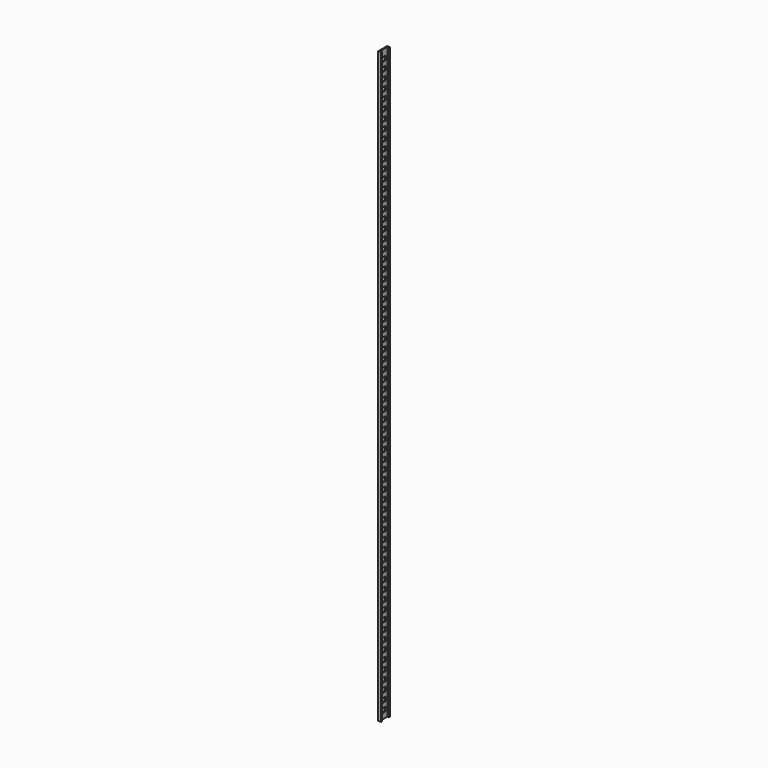
from build123d import *

# Parameters (mm, degrees)
F0_W     = 20
F0_H     = 1070
F0_W_2   = 8
F0_H_2   = 8
F1_DEPTH = 2
F2_W     = 2
F2_H     = 1070
F3_DEPTH = 3


with BuildPart() as f1:
    # F0 (on Right) → F1 (new body)
    with BuildSketch(Plane.YZ):
        with Locations((0, 535)):
            Rectangle(F0_W, F0_H)
        with Locations((0, 14)):
            Rectangle(F0_W_2, F0_H_2, mode=Mode.SUBTRACT)
        with Locations((0, 30)):
            Rectangle(F0_W_2, F0_H_2, mode=Mode.SUBTRACT)
        with Locations((0, 46)):
            Rectangle(F0_W_2, F0_H_2, mode=Mode.SUBTRACT)
        with Locations((0, 62)):
            Rectangle(F0_W_2, F0_H_2, mode=Mode.SUBTRACT)
        with Locations((0, 78)):
            Rectangle(F0_W_2, F0_H_2, mode=Mode.SUBTRACT)
        with Locations((0, 94)):
            Rectangle(F0_W_2, F0_H_2, mode=Mode.SUBTRACT)
        with Locations((0, 110)):
            Rectangle(F0_W_2, F0_H_2, mode=Mode.SUBTRACT)
        with Locations((0, 126)):
            Rectangle(F0_W_2, F0_H_2, mode=Mode.SUBTRACT)
        with Locations((0, 142)):
            Rectangle(F0_W_2, F0_H_2, mode=Mode.SUBTRACT)
        with Locations((0, 158)):
            Rectangle(F0_W_2, F0_H_2, mode=Mode.SUBTRACT)
        with Locations((0, 174)):
            Rectangle(F0_W_2, F0_H_2, mode=Mode.SUBTRACT)
        with Locations((0, 190)):
            Rectangle(F0_W_2, F0_H_2, mode=Mode.SUBTRACT)
        with Locations((0, 206)):
            Rectangle(F0_W_2, F0_H_2, mode=Mode.SUBTRACT)
        with Locations((0, 222)):
            Rectangle(F0_W_2, F0_H_2, mode=Mode.SUBTRACT)
        with Locations((0, 238)):
            Rectangle(F0_W_2, F0_H_2, mode=Mode.SUBTRACT)
        with Locations((0, 254)):
            Rectangle(F0_W_2, F0_H_2, mode=Mode.SUBTRACT)
        with Locations((0, 270)):
            Rectangle(F0_W_2, F0_H_2, mode=Mode.SUBTRACT)
        with Locations((0, 286)):
            Rectangle(F0_W_2, F0_H_2, mode=Mode.SUBTRACT)
        with Locations((0, 302)):
            Rectangle(F0_W_2, F0_H_2, mode=Mode.SUBTRACT)
        with Locations((0, 318)):
            Rectangle(F0_W_2, F0_H_2, mode=Mode.SUBTRACT)
        with Locations((0, 334)):
            Rectangle(F0_W_2, F0_H_2, mode=Mode.SUBTRACT)
        with Locations((0, 350)):
            Rectangle(F0_W_2, F0_H_2, mode=Mode.SUBTRACT)
        with Locations((0, 366)):
            Rectangle(F0_W_2, F0_H_2, mode=Mode.SUBTRACT)
        with Locations((0, 382)):
            Rectangle(F0_W_2, F0_H_2, mode=Mode.SUBTRACT)
        with Locations((0, 398)):
            Rectangle(F0_W_2, F0_H_2, mode=Mode.SUBTRACT)
        with Locations((0, 414)):
            Rectangle(F0_W_2, F0_H_2, mode=Mode.SUBTRACT)
        with Locations((0, 430)):
            Rectangle(F0_W_2, F0_H_2, mode=Mode.SUBTRACT)
        with Locations((0, 446)):
            Rectangle(F0_W_2, F0_H_2, mode=Mode.SUBTRACT)
        with Locations((0, 462)):
            Rectangle(F0_W_2, F0_H_2, mode=Mode.SUBTRACT)
        with Locations((0, 478)):
            Rectangle(F0_W_2, F0_H_2, mode=Mode.SUBTRACT)
        with Locations((0, 494)):
            Rectangle(F0_W_2, F0_H_2, mode=Mode.SUBTRACT)
        with Locations((0, 510)):
            Rectangle(F0_W_2, F0_H_2, mode=Mode.SUBTRACT)
        with Locations((0, 526)):
            Rectangle(F0_W_2, F0_H_2, mode=Mode.SUBTRACT)
        with Locations((0, 542)):
            Rectangle(F0_W_2, F0_H_2, mode=Mode.SUBTRACT)
        with Locations((0, 558)):
            Rectangle(F0_W_2, F0_H_2, mode=Mode.SUBTRACT)
        with Locations((0, 574)):
            Rectangle(F0_W_2, F0_H_2, mode=Mode.SUBTRACT)
        with Locations((0, 590)):
            Rectangle(F0_W_2, F0_H_2, mode=Mode.SUBTRACT)
        with Locations((0, 606)):
            Rectangle(F0_W_2, F0_H_2, mode=Mode.SUBTRACT)
        with Locations((0, 622)):
            Rectangle(F0_W_2, F0_H_2, mode=Mode.SUBTRACT)
        with Locations((0, 638)):
            Rectangle(F0_W_2, F0_H_2, mode=Mode.SUBTRACT)
        with Locations((0, 654)):
            Rectangle(F0_W_2, F0_H_2, mode=Mode.SUBTRACT)
        with Locations((0, 670)):
            Rectangle(F0_W_2, F0_H_2, mode=Mode.SUBTRACT)
        with Locations((0, 686)):
            Rectangle(F0_W_2, F0_H_2, mode=Mode.SUBTRACT)
        with Locations((0, 702)):
            Rectangle(F0_W_2, F0_H_2, mode=Mode.SUBTRACT)
        with Locations((0, 718)):
            Rectangle(F0_W_2, F0_H_2, mode=Mode.SUBTRACT)
        with Locations((0, 734)):
            Rectangle(F0_W_2, F0_H_2, mode=Mode.SUBTRACT)
        with Locations((0, 750)):
            Rectangle(F0_W_2, F0_H_2, mode=Mode.SUBTRACT)
        with Locations((0, 766)):
            Rectangle(F0_W_2, F0_H_2, mode=Mode.SUBTRACT)
        with Locations((0, 782)):
            Rectangle(F0_W_2, F0_H_2, mode=Mode.SUBTRACT)
        with Locations((0, 798)):
            Rectangle(F0_W_2, F0_H_2, mode=Mode.SUBTRACT)
        with Locations((0, 814)):
            Rectangle(F0_W_2, F0_H_2, mode=Mode.SUBTRACT)
        with Locations((0, 830)):
            Rectangle(F0_W_2, F0_H_2, mode=Mode.SUBTRACT)
        with Locations((0, 846)):
            Rectangle(F0_W_2, F0_H_2, mode=Mode.SUBTRACT)
        with Locations((0, 862)):
            Rectangle(F0_W_2, F0_H_2, mode=Mode.SUBTRACT)
        with Locations((0, 878)):
            Rectangle(F0_W_2, F0_H_2, mode=Mode.SUBTRACT)
        with Locations((0, 894)):
            Rectangle(F0_W_2, F0_H_2, mode=Mode.SUBTRACT)
        with Locations((0, 910)):
            Rectangle(F0_W_2, F0_H_2, mode=Mode.SUBTRACT)
        with Locations((0, 926)):
            Rectangle(F0_W_2, F0_H_2, mode=Mode.SUBTRACT)
        with Locations((0, 942)):
            Rectangle(F0_W_2, F0_H_2, mode=Mode.SUBTRACT)
        with Locations((0, 958)):
            Rectangle(F0_W_2, F0_H_2, mode=Mode.SUBTRACT)
        with Locations((0, 974)):
            Rectangle(F0_W_2, F0_H_2, mode=Mode.SUBTRACT)
        with Locations((0, 990)):
            Rectangle(F0_W_2, F0_H_2, mode=Mode.SUBTRACT)
        with Locations((0, 1006)):
            Rectangle(F0_W_2, F0_H_2, mode=Mode.SUBTRACT)
        with Locations((0, 1022)):
            Rectangle(F0_W_2, F0_H_2, mode=Mode.SUBTRACT)
        with Locations((0, 1038)):
            Rectangle(F0_W_2, F0_H_2, mode=Mode.SUBTRACT)
        with Locations((0, 1054)):
            Rectangle(F0_W_2, F0_H_2, mode=Mode.SUBTRACT)
    extrude(amount=F1_DEPTH)

    # F2 (on face) → F3 (join)
    with BuildSketch(Plane.YZ.offset(2)):
        with Locations((-9, 535)):
            Rectangle(F2_W, F2_H)
        with Locations((9, 535)):
            Rectangle(F2_W, F2_H)
    extrude(amount=F3_DEPTH)


solid = f1.part
